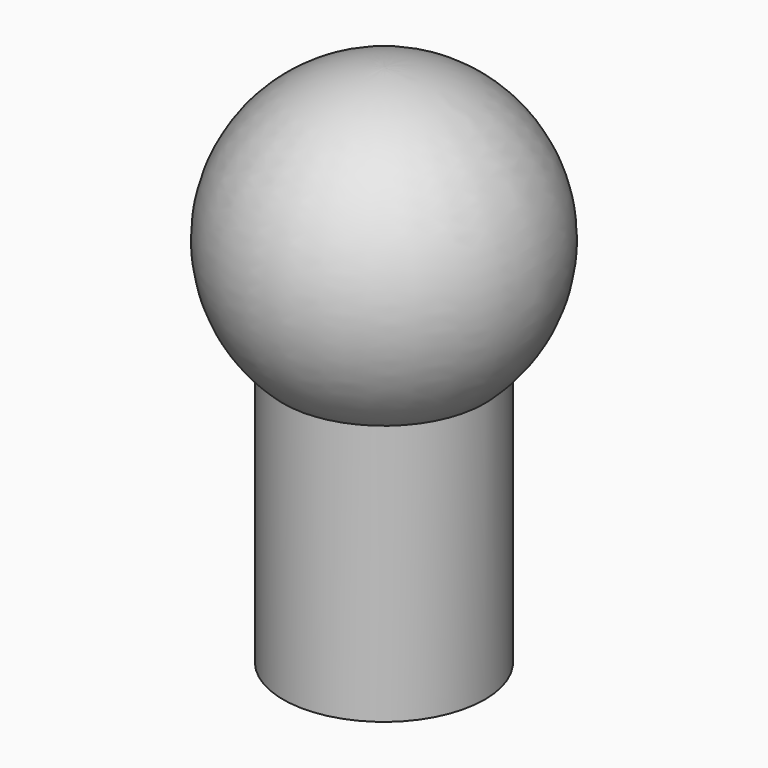
from build123d import *

# Parameters (mm, degrees)
SKETCH_R  = 1.5
PAD_DEPTH = 4


with BuildPart() as part:
    # Sketch → Pad (new body)
    with BuildSketch(Plane.XY):
        Circle(SKETCH_R)
    extrude(amount=PAD_DEPTH)

    # Sketch001 → Revolution (revolve)
    with BuildSketch(Plane.YZ):
        with BuildLine():
            ThreePointArc((0, 7.788111), (-2.136656, 6.226651), (-1.297923, 3.716675))
            ThreePointArc((0, 1.203972), (-0.343644, 2.618033), (-1.297923, 3.716675))
            Line((0, 1.203972), (0, 7.788111))
        make_face()
    revolve(axis=Axis((0, 0, 0), (0, 0, 1)))


solid = part.part
